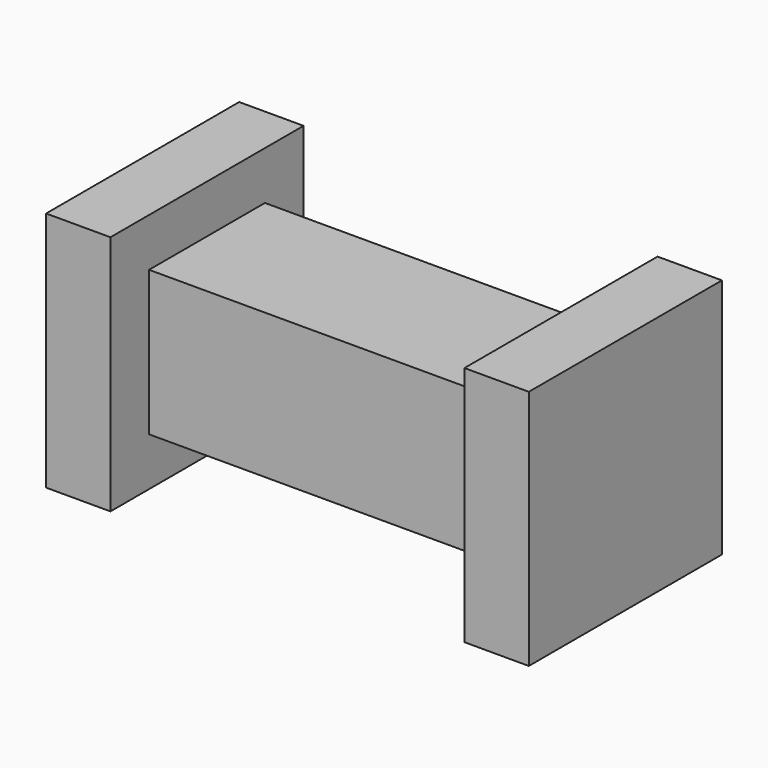
from build123d import *

# Parameters (mm, degrees)
F0_W     = 60
F0_H     = 30
F1_DEPTH = 30
F2_W     = 44
F2_H     = 30
F3_DEPTH = 6
F4_W     = 44
F4_H     = 24
F5_DEPTH = 6
F6_W     = 44
F6_H     = 24
F7_DEPTH = 6
F8_W     = 44
F8_H     = 18
F9_DEPTH = 6


with BuildPart() as f1:
    # F0 (on Front) → F1 (new body)
    with BuildSketch(Plane.XZ):
        Rectangle(F0_W, F0_H)
    extrude(amount=F1_DEPTH)

    # F2 (on face) → F3 (cut)
    with BuildSketch(Plane.XZ.offset(30)):
        Rectangle(F2_W, F2_H)
    extrude(amount=-F3_DEPTH, mode=Mode.SUBTRACT)

    # F4 (on face) → F5 (cut)
    with BuildSketch(Plane(origin=(0, 0, -15), x_dir=(1, 0, 0), z_dir=(0, 0, -1))):
        with Locations((0, 12)):
            Rectangle(F4_W, F4_H)
    extrude(amount=-F5_DEPTH, mode=Mode.SUBTRACT)

    # F6 (on face) → F7 (cut)
    with BuildSketch(Plane(origin=(0, 0, 0), x_dir=(-1, 0, 0), z_dir=(0, 1, 0))):
        with Locations((0, 3)):
            Rectangle(F6_W, F6_H)
    extrude(amount=-F7_DEPTH, mode=Mode.SUBTRACT)

    # F8 (on face) → F9 (cut)
    with BuildSketch(Plane.XY.offset(15)):
        with Locations((0, -15)):
            Rectangle(F8_W, F8_H)
    extrude(amount=-F9_DEPTH, mode=Mode.SUBTRACT)


solid = f1.part
